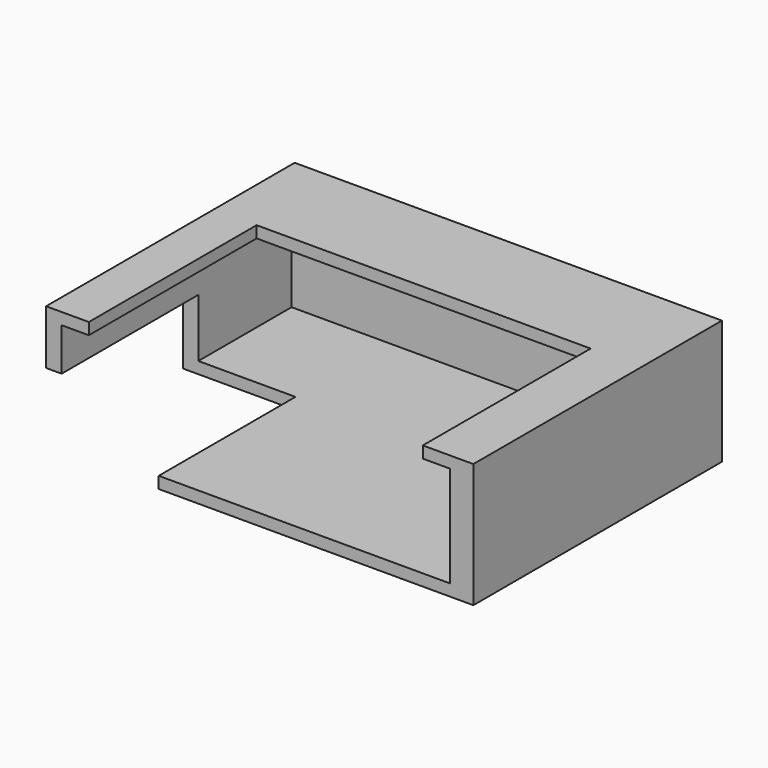
from build123d import *

# Parameters (mm, degrees)
BOX104_W     = 17
BOX104_H     = 24
BOX104_DEPTH = 11
BOX103_W     = 43
BOX103_H     = 27
BOX103_DEPTH = 11
BOX102_W     = 50
BOX102_H     = 37
BOX102_DEPTH = 13
BOX101_W     = 55
BOX101_H     = 40
BOX101_DEPTH = 16


with BuildPart() as cube030:
    # Box104 → Box104 (new body)
    with BuildSketch(Plane(origin=(337.5, 106, 176), x_dir=(1, 0, 0), z_dir=(0, 0, -1))):
        with Locations((8.5, 12)):
            Rectangle(BOX104_W, BOX104_H)
    extrude(amount=BOX104_DEPTH)


with BuildPart() as cube029:
    # Box103 → Box103 (new body)
    with BuildSketch(Plane(origin=(345.5, 111, 185), x_dir=(1, 0, 0), z_dir=(0, 0, -1))):
        with Locations((21.5, 13.5)):
            Rectangle(BOX103_W, BOX103_H)
    extrude(amount=BOX103_DEPTH)


with BuildPart() as cube028:
    # Box102 → Box102 (new body)
    with BuildSketch(Plane(origin=(342, 121, 181.5), x_dir=(1, 0, 0), z_dir=(0, 0, -1))):
        with Locations((25, 18.5)):
            Rectangle(BOX102_W, BOX102_H)
    extrude(amount=BOX102_DEPTH)


with BuildPart() as cut014:
    # Box101 → Box101 (new body)
    with BuildSketch(Plane(origin=(340, 124, 183), x_dir=(1, 0, 0), z_dir=(0, 0, -1))):
        with Locations((27.5, 20)):
            Rectangle(BOX101_W, BOX101_H)
    extrude(amount=BOX101_DEPTH)

    # Cut012: cut Cube028
    add(cube028.part, mode=Mode.SUBTRACT)

    # Cut013: cut Cube029
    add(cube029.part, mode=Mode.SUBTRACT)

    # Cut014: cut Cube030
    add(cube030.part, mode=Mode.SUBTRACT)


solid = cut014.part
